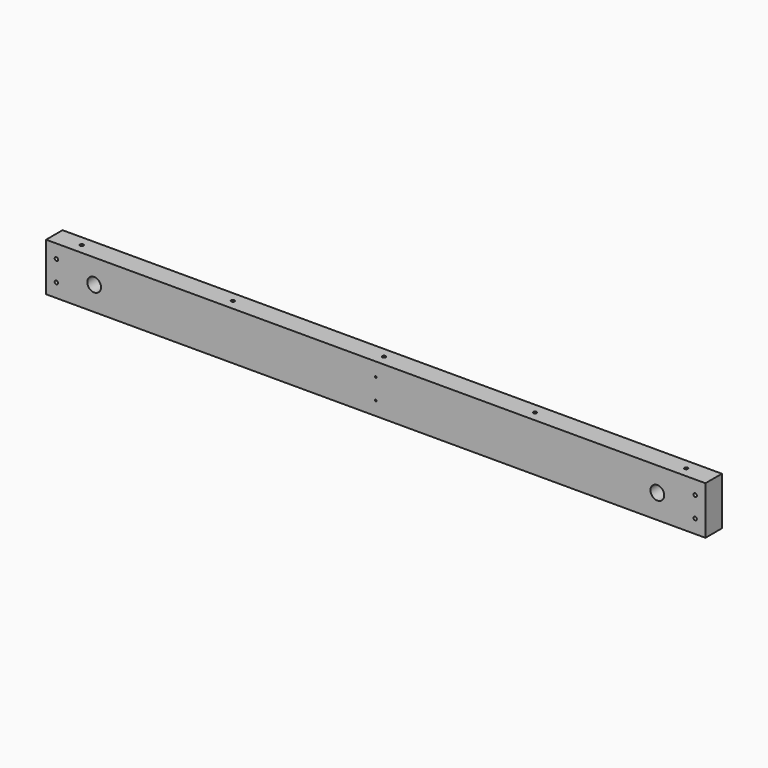
from build123d import *

# Parameters (mm, degrees)
F0_W     = 1219.2
F0_H     = 88.9
F1_DEPTH = 38.1
F3_D     = 6.35
F3_DEPTH = 12.7
F3_TIP   = 1.9077324654
F5_D     = 6.35
F5_DEPTH = 12.7
F5_TIP   = 1.9077324654
F7_D     = 25.4
F9_D     = 3.175


with BuildPart() as f1:
    # F0 (on Front) → F1 (new body)
    with BuildSketch(Plane.XZ):
        with Locations((-24.523974567, 18.9100238495)):
            Rectangle(F0_W, F0_H)
    extrude(amount=F1_DEPTH)

    # F3
    with Locations(Plane.XZ.offset(38.1)):
        with Locations((566.026025433, 37.9600238495), (566.026025433, -0.1399761505), (-615.073974567, 37.9600238495), (-615.073974567, -0.1399761505)):
            Hole(F3_D / 2, depth=F3_DEPTH)
            with Locations((0, 0, -(F3_DEPTH + F3_TIP / 2))):  # 118° drill point
                Cone(0, F3_D / 2, F3_TIP, mode=Mode.SUBTRACT)

    # F5
    with Locations(Plane.XY.offset(63.3600238495)):
        with Locations((-583.323974567, -19.05), (-303.923974567, -19.05), (-24.523974567, -19.05), (254.876025433, -19.05), (534.276025433, -19.05)):
            Hole(F5_D / 2, depth=F5_DEPTH)
            with Locations((0, 0, -(F5_DEPTH + F5_TIP / 2))):  # 118° drill point
                Cone(0, F5_D / 2, F5_TIP, mode=Mode.SUBTRACT)

    # F7 (through all)
    with Locations(Plane.XZ.offset(38.1)):
        with Locations((-545.223974567, 18.9100238495), (496.176025433, 18.9100238495)):
            Hole(F7_D / 2)

    # F9 (through all)
    with Locations(Plane.XZ.offset(38.1)):
        with Locations((-24.523974567, 37.9600238495), (-24.523974567, -0.1399761505)):
            Hole(F9_D / 2)


solid = f1.part
